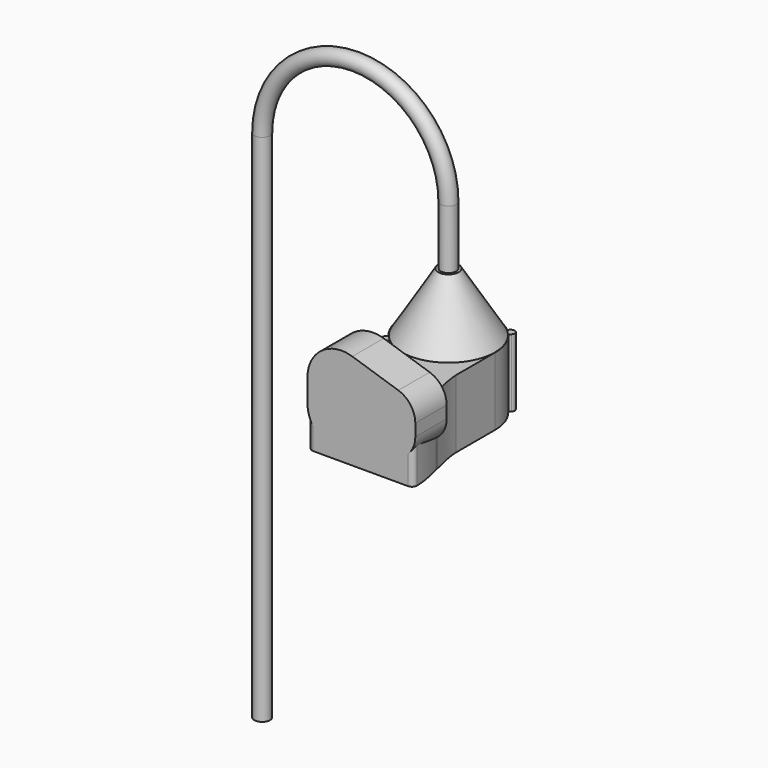
from build123d import *

# Parameters (mm, degrees)
F1_DEPTH = 69.5
F3_DEPTH = 40
F8_R     = 8
F8_R_2   = 5.5


with BuildPart() as f1:
    # F0 (on Top) → F1 (new body)
    with BuildSketch(Plane.XY):
        with BuildLine():
            ThreePointArc((-30.8172449595, -36.474099209), (-20.8748754854, -42.9453382041), (-9.64408867, -46.7659497255))
            ThreePointArc((-9.64408867, -46.7659497255), (-7.8974367264, -47.8425537235), (-7.2512274074, -49.7899321398))
            add(Edge.make_bspline(
                [(-47.75, -114.5209702496), (-48.1561329049, -107.0379336107), (-47.9408912939, -79.9310156181), (-21.8447380657, -70.4273345655), (-9.2118798368, -59.9414939445), (-7.3743703673, -54.093489107), (-7.2512274074, -49.7899321398)],
                knots=[0, 0, 0, 0, 0.3130784549, 0.6004263641, 0.8211466556, 1, 1, 1, 1], degree=3))
            ThreePointArc((-47.75, -114.5209702496), (-46.1957449517, -117.8800723993), (-42.7573478868, -119.25))
            Line((-42.7573478868, -119.25), (54.25, -119.25))
            ThreePointArc((54.25, -119.25), (57.7855339059, -117.7855339059), (59.25, -114.25))
            add(Edge.make_bspline(
                [(59.25, -114.25), (59.25, -104.4930401313), (56.9144944398, -94.7185834995), (54.1147271984, -83.4034477474)],
                knots=[0, 0, 0, 0, 0.4887709874, 0.4887709874, 0.4887709874, 0.4887709874], degree=3))
            add(Edge.make_bspline(
                [(54.1147271984, -83.4034477474), (54.0073248946, -82.9693860761), (53.8992393934, -82.5330571752), (53.7906652784, -82.0948038235)],
                knots=[0.4887709874, 0.4887709874, 0.4887709874, 0.4887709874, 0.5075208068, 0.5075208068, 0.5075208068, 0.5075208068], degree=3))
            add(Edge.make_bspline(
                [(53.7906652799, -82.0948038223), (53.755174216, -82.0584101523), (53.7197837133, -82.0225706248), (53.4665051263, -80.7860591642)],
                knots=[1.3476094532, 1.3476094532, 1.3476094532, 1.3476094532, 2.6964633967, 2.6964633967, 2.6964633967, 2.6964633967], degree=3))
            add(Edge.make_bspline(
                [(53.4665051263, -80.7860591642), (50.7027022631, -69.6215239771), (47.75, -57.4447294561), (47.75, -49.7899321398)],
                knots=[0.5261086855, 0.5261086855, 0.5261086855, 0.5261086855, 1, 1, 1, 1], degree=3))
            Line((47.75, -49.7899321398), (47.75, 0))
            ThreePointArc((47.75, 0), (44.8425062704, 16.4076851318), (36.474099209, 30.8172449595))
            ThreePointArc((36.474099209, 30.8172449595), (33.7643488017, 33.7643488017), (30.8172449595, 36.474099209))
            ThreePointArc((30.8172449595, 36.474099209), (0, 47.75), (-30.8172449595, 36.474099209))
            ThreePointArc((-30.8172449595, 36.474099209), (-33.7643488017, 33.7643488017), (-36.474099209, 30.8172449595))
            ThreePointArc((-36.474099209, 30.8172449595), (-47.75, 0), (-36.474099209, -30.8172449595))
            ThreePointArc((-36.474099209, -30.8172449595), (-33.7643488017, -33.7643488017), (-30.8172449595, -36.474099209))
        make_face()
        with BuildLine():
            Line((-32.5269119346, -38.1837661841), (-30.8172449595, -36.474099209))
            ThreePointArc((-30.8172449595, -36.474099209), (-33.7643488017, -33.7643488017), (-36.474099209, -30.8172449595))
            Line((-36.474099209, -30.8172449595), (-38.1837661841, -32.5269119346))
            ThreePointArc((-38.1837661841, -32.5269119346), (-38.1837661841, -38.1837661841), (-32.5269119346, -38.1837661841))
        make_face()
        with BuildLine():
            Line((-38.1837661841, 32.5269119346), (-36.474099209, 30.8172449595))
            ThreePointArc((-36.474099209, 30.8172449595), (-33.7643488017, 33.7643488017), (-30.8172449595, 36.474099209))
            Line((-30.8172449595, 36.474099209), (-32.5269119346, 38.1837661841))
            ThreePointArc((-32.5269119346, 38.1837661841), (-38.1837661841, 38.1837661841), (-38.1837661841, 32.5269119346))
        make_face()
        with BuildLine():
            Line((32.5269119346, 38.1837661841), (30.8172449595, 36.474099209))
            ThreePointArc((30.8172449595, 36.474099209), (33.7643488017, 33.7643488017), (36.474099209, 30.8172449595))
            Line((36.474099209, 30.8172449595), (38.1837661841, 32.5269119346))
            ThreePointArc((38.1837661841, 32.5269119346), (38.1837661841, 38.1837661841), (32.5269119346, 38.1837661841))
        make_face()
        with BuildLine():
            add(Edge.make_bspline(
                [(54.1147271984, -83.4034477474), (54.0073248946, -82.9693860761), (53.8992393934, -82.5330571752), (53.7906652784, -82.0948038235)],
                knots=[0.4887709874, 0.4887709874, 0.4887709874, 0.4887709874, 0.5075208068, 0.5075208068, 0.5075208068, 0.5075208068], degree=3))
            add(Edge.make_bspline(
                [(54.1147271984, -83.4034477474), (53.8616822932, -82.1680771268), (53.8261235987, -82.1311639144), (53.7906652799, -82.0948038223)],
                knots=[0, 0, 0, 0, 1.3476094532, 1.3476094532, 1.3476094532, 1.3476094532], degree=3))
        make_face()
        with BuildLine():
            add(Edge.make_bspline(
                [(53.7906652799, -82.0948038223), (53.755174216, -82.0584101523), (53.7197837133, -82.0225706248), (53.4665051263, -80.7860591642)],
                knots=[1.3476094532, 1.3476094532, 1.3476094532, 1.3476094532, 2.6964633967, 2.6964633967, 2.6964633967, 2.6964633967], degree=3))
            add(Edge.make_bspline(
                [(53.7906652784, -82.0948038235), (53.6830289093, -81.6603356307), (53.5749123302, -81.2239760863), (53.4665051263, -80.7860591642)],
                knots=[0.5075208068, 0.5075208068, 0.5075208068, 0.5075208068, 0.5261086855, 0.5261086855, 0.5261086855, 0.5261086855], degree=3))
        make_face()
    extrude(amount=F1_DEPTH)

    # F2 (on face) → F3 (join)
    with BuildSketch(Plane.XZ.offset(119.25)):
        with BuildLine():
            ThreePointArc((-2.644932421, 98), (-33.998211509, 92.9903009265), (-48.4, 64.6934162459))
            Line((-48.4, 64.6934162459), (-48.4, 41))
            ThreePointArc((-48.4, 41), (-46.9597018464, 31.0628770773), (-42.7573478868, 21.9436067144))
            Line((-42.7573478868, 21.9436067144), (-42.7573478868, 69.5))
            Line((-42.7573478868, 69.5), (54.25, 69.5))
            Line((54.25, 69.5), (54.25, 28.9318292723))
            ThreePointArc((54.25, 28.9318292723), (59.689499778, 37.0519803338), (61.6, 46.6371250902))
            Line((61.6, 46.6371250902), (61.6, 59.0562911557))
            ThreePointArc((61.6, 59.0562911557), (56.8120604862, 73.7692993764), (44.2821911278, 82.8467081229))
            Line((44.2821911278, 82.8467081229), (-2.644932421, 98))
        make_face()
    extrude(amount=-F3_DEPTH)

    # F4 (on Front) → F5 (revolve)
    with BuildSketch(Plane.XZ):
        Polygon((10.5, 129.5), (7.5, 129.5), (7.5, 93.5862857103), (33.0483277142, 69.5), (47.5, 69.5), align=None)
    revolve(axis=Axis((0, 0, 99.5), (0, 0, 1)))


with BuildPart() as f9:
    # F9: sweep along a path in F6
    with BuildLine(Plane.XZ) as f9_path:
        Line((0, 114.5), (0, 189.5))
        ThreePointArc((0, 189.5), (-95, 284.5), (-190, 189.5))
        Line((-190, 189.5), (-190, -335.5))
    # F8 (on plane+point) → F9 (sweep)
    with BuildSketch(Plane.XY.offset(114.5)):
        Circle(F8_R)
        Circle(F8_R_2, mode=Mode.SUBTRACT)
    sweep(path=f9_path.line)


solid = Compound([f1.part, f9.part])
